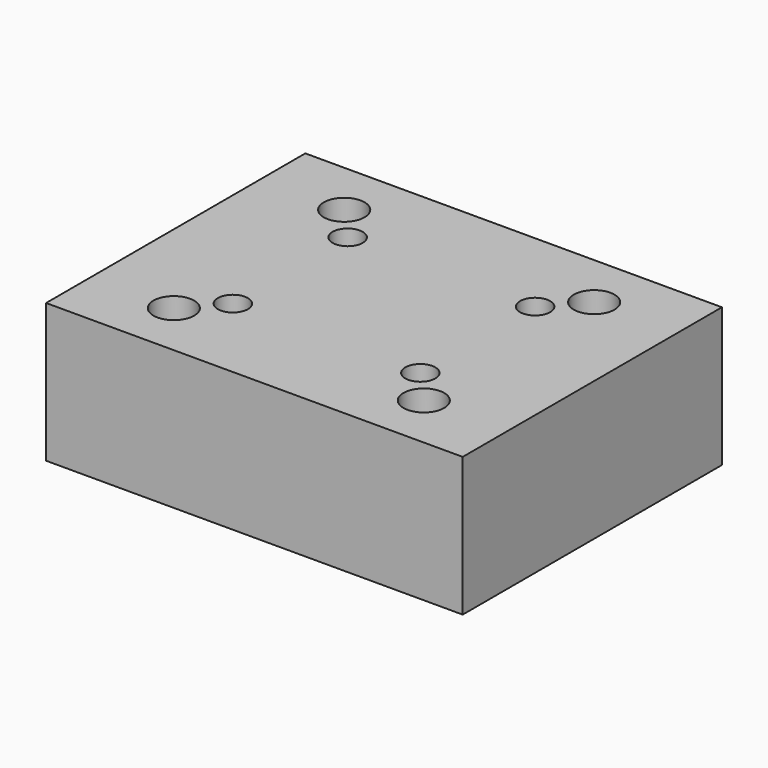
from build123d import *

# Parameters (mm, degrees)
F0_W     = 90
F0_H     = 70
F1_DEPTH = 30
F2_D     = 8.8
F4_D     = 6.5


with BuildPart() as f1:
    # F0 (on Top) → F1 (new body)
    with BuildSketch(Plane.XY):
        with Locations((0, 0.8103642613)):
            Rectangle(F0_W, F0_H)
    extrude(amount=F1_DEPTH)

    # F2 (through all)
    with Locations(Plane(origin=(0, 0, 0), x_dir=(1, 0, 0), z_dir=(0, 0, -1))):
        with Locations((-27, -23.8103642613), (-27, 22.1896357387), (27, 22.1896357387), (27, -23.8103642613)):
            Hole(F2_D / 2)

    # F4 (through all)
    with Locations(Plane.XY.offset(30)):
        with Locations((-20.25, 16.3103642613), (-20.25, -14.6896357387), (20.25, -14.6896357387), (20.25, 16.3103642613)):
            Hole(F4_D / 2)


solid = f1.part
